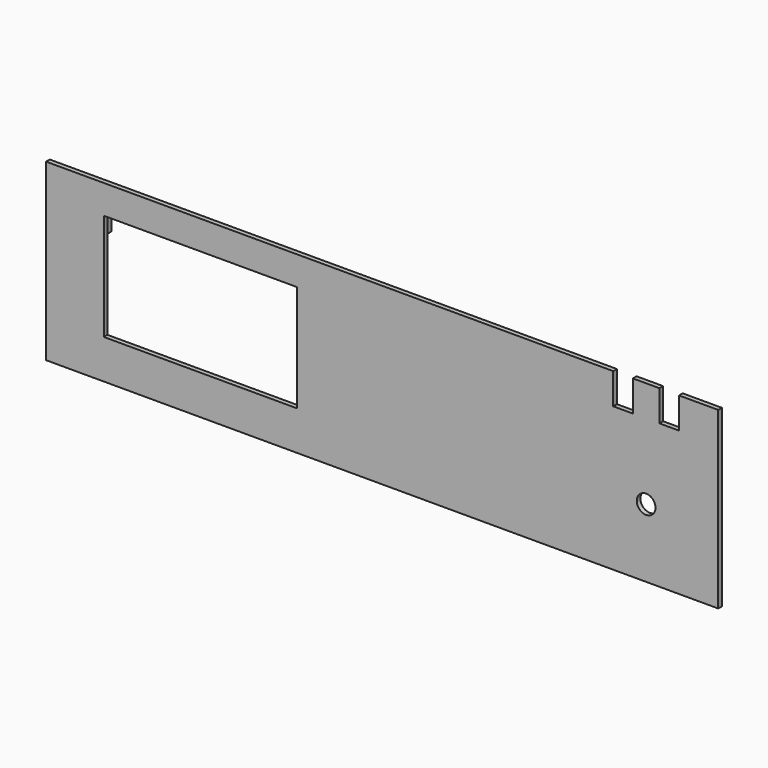
from build123d import *

# Parameters (mm, degrees)
F0_R     = 3.25
F0_W     = 67
F0_H     = 37
F1_DEPTH = 1.6
F2_W     = 20
F2_H     = 7
F3_DEPTH = 6
F4_W     = 5.5
F4_H     = 15
F5_DEPTH = 3


with BuildPart() as f1:
    # F0 (on Front) → F1 (new body)
    with BuildSketch(Plane.XZ):
        Polygon((-116.5, -30.3), (116.5, -30.3), (116.5, 30.3), (102.9, 30.3), (102.9, 19.57), (96.1, 19.57), (96.1, 30.3), (86.9, 30.3), (86.9, 19.57), (80.1, 19.57), (80.1, 30.3), (-116.5, 30.3), align=None)
        with Locations((91.5, -6.62)):
            Circle(F0_R, mode=Mode.SUBTRACT)
        with Locations((-63, 1.8)):
            Rectangle(F0_W, F0_H, mode=Mode.SUBTRACT)
    extrude(amount=F1_DEPTH)

    # F2 (on face) → F3 (join)
    with BuildSketch(Plane(origin=(0, 0, 0), x_dir=(-1, 0, 0), z_dir=(0, 1, 0))):
        with Locations((21.5, -21.8)):
            Rectangle(F2_W, F2_H)
    extrude(amount=F3_DEPTH)

    # F4 (on face) → F5 (join)
    with BuildSketch(Plane(origin=(0, 0, 0), x_dir=(-1, 0, 0), z_dir=(0, 1, 0))):
        with Locations((100.25, 20.8)):
            Rectangle(F4_W, F4_H)
    extrude(amount=F5_DEPTH)


solid = f1.part
